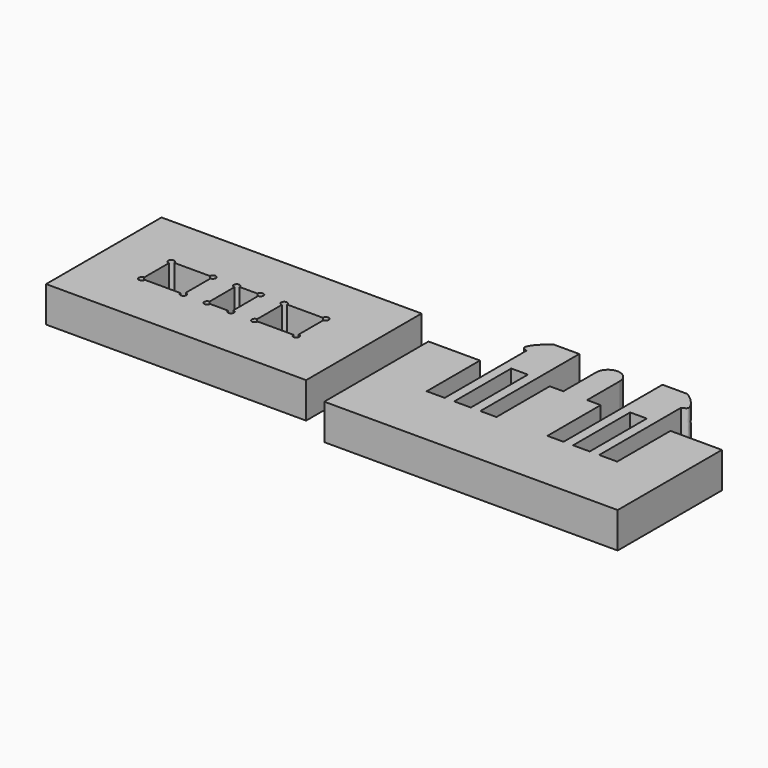
from build123d import *

# Parameters (mm, degrees)
F0_W     = 1.4
F0_H     = 6
F1_DEPTH = 3
F0_W_2   = 21.8739062548
F0_H_2   = 12.1374987066


with BuildPart() as f1:
    # F0 (on Top) → F1 (new body)
    with BuildSketch(Plane.XY):
        with BuildLine():
            Line((7.1721314453, 3.2440069731), (2.8424425345, 3.2440069731))
            Line((2.8424425345, 3.2440069731), (2.8424425345, -7.7165540472))
            Line((2.8424425345, -7.7165540472), (27.5232974655, -7.7165540472))
            Line((27.5232974655, -7.7165540472), (27.5232974655, 3.2440069731))
            Line((27.5232974655, 3.2440069731), (23.1936085547, 3.2440069731))
            Line((23.1936085547, 3.2440069731), (23.1936085547, -2.3559930269))
            Line((23.1936085547, -2.3559930269), (21.68287, -2.3559930269))
            Line((21.68287, -2.3559930269), (21.68287, 6.2440069731))
            add(Edge.make_bspline(
                [(21.68287, 6.2440069731), (21.9023524995, 6.3485828379), (22.4028940447, 6.4768500817), (21.5240228248, 7.5849713603), (20.7910864627, 8.0440069731)],
                knots=[0, 0, 0, 0, 0.3344750406, 1, 1, 1, 1], degree=3))
            Line((20.7910864626, 8.0440069731), (18.68287, 8.0440069731))
            Line((18.68287, 8.0440069731), (18.68287, -2.3559930269))
            Line((18.68287, -2.3559930269), (17.3263746899, -2.3559930269))
            Line((17.3263746899, -2.3559930269), (17.3263746899, 3.2440069731))
            Line((17.3263746899, 3.2440069731), (16.18287, 3.2440069731))
            Line((16.18287, 3.2440069731), (16.18287, 6.6956859082))
            ThreePointArc((16.18287, 6.6956859082), (15.18287, 7.6956859082), (14.18287, 6.6956859082))
            Line((14.18287, 6.6956859082), (14.18287, 3.2440069731))
            Line((14.18287, 3.2440069731), (13.0393653101, 3.2440069731))
            Line((13.0393653101, 3.2440069731), (13.0393653101, -2.3559930269))
            Line((13.0393653101, -2.3559930269), (11.68287, -2.3559930269))
            Line((11.68287, -2.3559930269), (11.68287, 8.0440069731))
            Line((11.68287, 8.0440069731), (9.5746535373, 8.0440069731))
            add(Edge.make_bspline(
                [(8.68287, 6.2440069731), (8.4633875005, 6.3485828379), (7.9628459553, 6.4768500817), (8.8417171752, 7.5849713603), (9.5746535373, 8.0440069731)],
                knots=[0, 0, 0, 0, 0.3344750406, 1, 1, 1, 1], degree=3))
            Line((8.68287, 6.2440069731), (8.68287, -2.3559930269))
            Line((8.68287, -2.3559930269), (7.1721314453, -2.3559930269))
            Line((7.1721314453, -2.3559930269), (7.1721314453, 3.2440069731))
        make_face()
        with Locations((10.18287, 0.6440069731)):
            Rectangle(F0_W, F0_H, mode=Mode.SUBTRACT)
        with Locations((20.18287, 0.6440069731)):
            Rectangle(F0_W, F0_H, mode=Mode.SUBTRACT)
    extrude(amount=F1_DEPTH)


with BuildPart() as f1b:
    # F0 (on Top) → F1, piece 2 (new body)
    with BuildSketch(Plane.XY):
        with Locations((-10.9369531274, 0)):
            Rectangle(F0_W_2, F0_H_2)
        with BuildLine():
            ThreePointArc((-17.4369531274, 1.3), (-17.6137298227, 1.7267766953), (-17.1869531274, 1.55))
            Line((-17.1869531274, 1.55), (-14.1869531274, 1.55))
            ThreePointArc((-14.1869531274, 1.55), (-13.9369531274, 1.8), (-13.6869531274, 1.55))
            ThreePointArc((-13.6869531274, 1.55), (-13.7601764321, 1.3732233047), (-13.9369531274, 1.3))
            Line((-13.9369531274, 1.3), (-13.9369531274, -1.3))
            ThreePointArc((-13.9369531274, -1.3), (-13.7601764321, -1.3732233047), (-13.6869531274, -1.55))
            ThreePointArc((-13.6869531274, -1.55), (-13.9369531274, -1.8), (-14.1869531274, -1.55))
            Line((-14.1869531274, -1.55), (-17.1869531274, -1.55))
            ThreePointArc((-17.1869531274, -1.55), (-17.6137298227, -1.7267766953), (-17.4369531274, -1.3))
            Line((-17.4369531274, -1.3), (-17.4369531274, 1.3))
        make_face(mode=Mode.SUBTRACT)
        with BuildLine():
            ThreePointArc((-11.9369531274, 1.3), (-12.1137298227, 1.7267766953), (-11.6869531274, 1.55))
            Line((-11.6869531274, 1.55), (-10.1869531274, 1.55))
            ThreePointArc((-10.1869531274, 1.55), (-9.9369531274, 1.8), (-9.6869531274, 1.55))
            ThreePointArc((-9.6869531274, 1.55), (-9.7601764321, 1.3732233047), (-9.9369531274, 1.3))
            Line((-9.9369531274, 1.3), (-9.9369531274, -1.3))
            ThreePointArc((-9.9369531274, -1.3), (-9.7601764321, -1.3732233047), (-9.6869531274, -1.55))
            ThreePointArc((-9.6869531274, -1.55), (-9.9369531274, -1.8), (-10.1869531274, -1.55))
            Line((-10.1869531274, -1.55), (-11.6869531274, -1.55))
            ThreePointArc((-11.6869531274, -1.55), (-12.1137298227, -1.7267766953), (-11.9369531274, -1.3))
            Line((-11.9369531274, -1.3), (-11.9369531274, 1.3))
        make_face(mode=Mode.SUBTRACT)
        with BuildLine():
            ThreePointArc((-7.9369531274, 1.3), (-8.1137298227, 1.7267766953), (-7.6869531274, 1.55))
            Line((-7.6869531274, 1.55), (-4.6869531274, 1.55))
            ThreePointArc((-4.6869531274, 1.55), (-4.4369531274, 1.8), (-4.1869531274, 1.55))
            ThreePointArc((-4.1869531274, 1.55), (-4.2601764321, 1.3732233047), (-4.4369531274, 1.3))
            Line((-4.4369531274, 1.3), (-4.4369531274, -1.3))
            ThreePointArc((-4.4369531274, -1.3), (-4.2601764321, -1.3732233047), (-4.1869531274, -1.55))
            ThreePointArc((-4.1869531274, -1.55), (-4.4369531274, -1.8), (-4.6869531274, -1.55))
            Line((-4.6869531274, -1.55), (-7.6869531274, -1.55))
            ThreePointArc((-7.6869531274, -1.55), (-8.1137298227, -1.7267766953), (-7.9369531274, -1.3))
            Line((-7.9369531274, -1.3), (-7.9369531274, 1.3))
        make_face(mode=Mode.SUBTRACT)
    extrude(amount=F1_DEPTH)


solid = Compound([f1.part, f1b.part])
